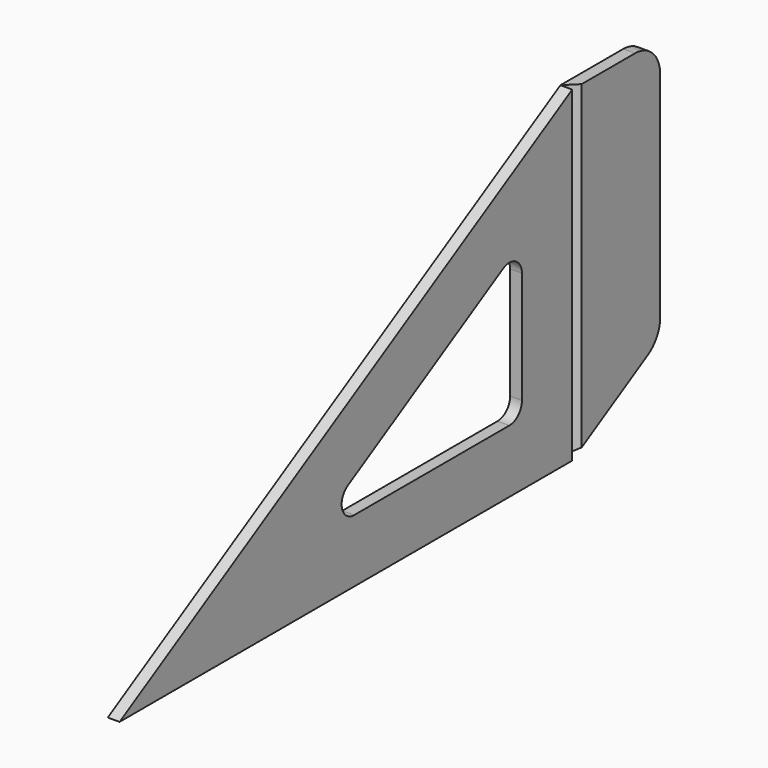
from build123d import *

# Parameters (mm, degrees)
F1_DEPTH = 2.3876
F3_DEPTH = 2.3876
F5_DEPTH = 131.983272


with BuildPart() as f1:
    # F0 (on Right) → F1 (new body, symmetric)
    with BuildSketch(Plane.YZ):
        Polygon((0, 131.982272), (-228.6, 0), (0, 0), align=None)
        with BuildLine():
            Line((-25.4, 76.989658), (-25.4, 31.75))
            ThreePointArc((-25.4, 31.75), (-27.259872, 27.259872), (-31.75, 25.4))
            Line((-31.75, 25.4), (-110.107387, 25.4))
            ThreePointArc((-110.107387, 25.4), (-116.241016, 30.106499), (-113.282387, 37.249261))
            Line((-113.282387, 37.249261), (-34.925, 82.48892))
            ThreePointArc((-34.925, 82.48892), (-28.575, 82.48892), (-25.4, 76.989658))
        make_face(mode=Mode.SUBTRACT)
    extrude(amount=F1_DEPTH, both=True)

    # F2 (on Right) → F3 (join, symmetric)
    with BuildSketch(Plane.YZ):
        with BuildLine():
            Line((31.75, 131.982272), (0, 131.982272))
            Line((0, 131.982272), (0, 0))
            Line((0, 0), (38.1, 21.997045))
            ThreePointArc((38.1, 21.997045), (42.748523, 26.645568), (44.45, 32.995568))
            Line((44.45, 32.995568), (44.45, 119.282272))
            ThreePointArc((44.45, 119.282272), (40.730256, 128.262528), (31.75, 131.982272))
        make_face()
    extrude(amount=F3_DEPTH, both=True)

    # F4 (on Top) → F5 (cut, through all)
    with BuildSketch(Plane.XY):
        Polygon((2.3876, 4.7752), (-2.3876, 0), (2.3876, 0), align=None)
    extrude(amount=F5_DEPTH, mode=Mode.SUBTRACT)


solid = f1.part
